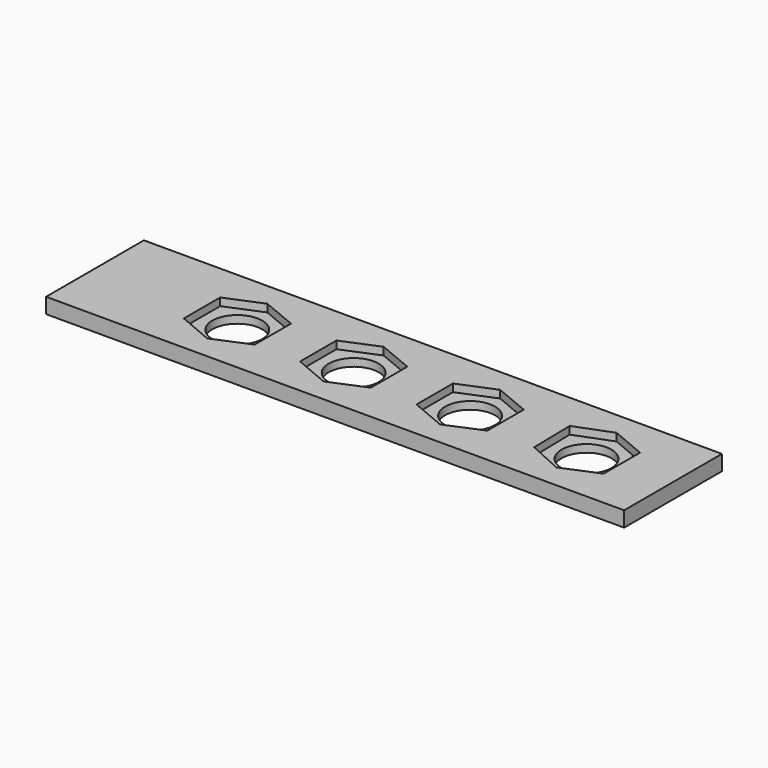
from build123d import *

# Parameters (mm, degrees)
F0_W     = 44.0817
F0_H     = 9.3218
F0_R     = 1.905
F1_DEPTH = 0.5842
F2_W     = 44.0817
F2_H     = 9.3218
F3_DEPTH = 0.5842


with BuildPart() as f1:
    # F0 (on Top) → F1 (new body)
    with BuildSketch(Plane.XY):
        with Locations((-22.04085, 4.6609)):
            Rectangle(F0_W, F0_H)
        with Locations((-33.22955, 4.6609)):
            Circle(F0_R, mode=Mode.SUBTRACT)
        with Locations((-24.35225, 4.6609)):
            Circle(F0_R, mode=Mode.SUBTRACT)
        with Locations((-15.47495, 4.6609)):
            Circle(F0_R, mode=Mode.SUBTRACT)
        with Locations((-6.59765, 4.6609)):
            Circle(F0_R, mode=Mode.SUBTRACT)
    extrude(amount=F1_DEPTH)

    # F2 (on face) → F3 (join)
    with BuildSketch(Plane.XY.offset(0.5842)):
        with Locations((-22.04085, 4.6609)):
            Rectangle(F2_W, F2_H)
        Polygon((-27.055155, 2.931543), (-27.055155, 6.398643), (-24.35388, 7.517512), (-21.653151, 6.398869), (-21.653151, 2.931769), (-24.35388, 1.789812), align=None, mode=Mode.SUBTRACT)
        Polygon((-18.178729, 2.934289), (-18.178729, 6.401389), (-15.477454, 7.520258), (-15.47495, 7.519221), (-12.776178, 6.401393), (-12.776178, 2.934293), (-15.47495, 1.79705), align=None, mode=Mode.SUBTRACT)
        Polygon((-33.22955, 7.52475), (-30.528275, 6.407391), (-30.528275, 2.940291), (-33.22955, 1.79856), (-35.930825, 2.940291), (-35.930825, 6.407391), align=None, mode=Mode.SUBTRACT)
        Polygon((-9.259915, 3.004381), (-9.324309, 6.470883), (-6.59765, 7.52475), (-3.901778, 6.39445), (-3.901778, 2.92735), (-6.59765, 1.79705), align=None, mode=Mode.SUBTRACT)
    extrude(amount=F3_DEPTH)


solid = f1.part
